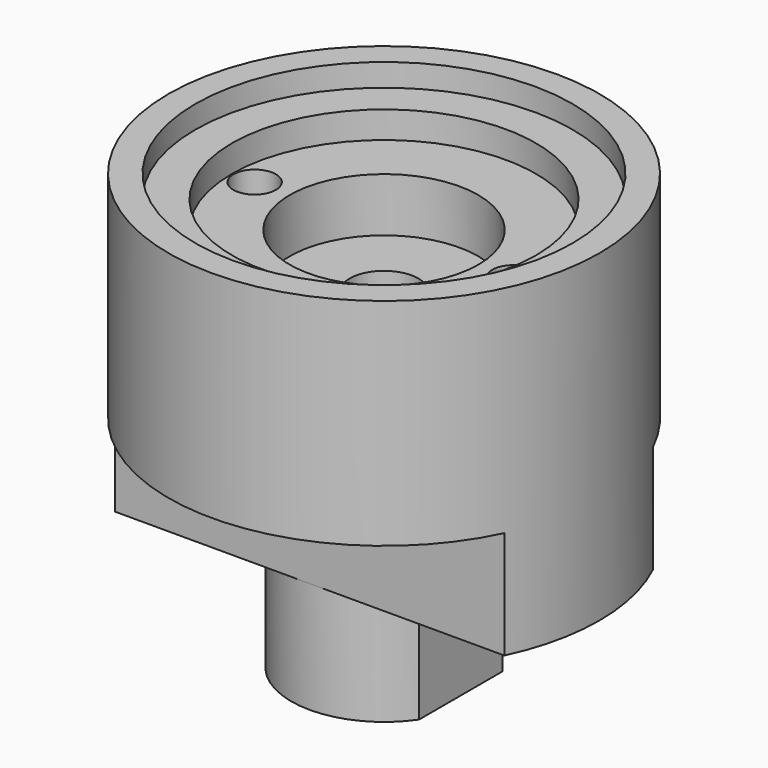
from build123d import *

# Parameters (mm, degrees)
F0_R      = 12.7
F0_R_2    = 1.25
F1_DEPTH  = 19.05
F2_R      = 11.1125
F3_DEPTH  = 1.3335
F4_R      = 8.9535
F5_DEPTH  = 1.5875
F6_R      = 2.3876
F6_R_2    = 1.25
F7_DEPTH  = 0.8382
F9_DEPTH  = 6.5532
F10_R     = 2.0193
F11_DEPTH = 12.7
F12_R     = 5.55625
F13_DEPTH = 3.175
F15_W     = 32.121103
F15_H     = 6.35
F16_DEPTH = 25.4
F18_W     = 29.637642
F18_H     = 6.35
F19_DEPTH = 25.4


with BuildPart() as f1:
    # F0 (on Top) → F1 (new body)
    with BuildSketch(Plane.XY):
        Circle(F0_R)
        with Locations((-7.62, 0)):
            Circle(F0_R_2, mode=Mode.SUBTRACT)
        with Locations((7.62, 0)):
            Circle(F0_R_2, mode=Mode.SUBTRACT)
    extrude(amount=F1_DEPTH)

    # F2 (on face) → F3 (cut)
    with BuildSketch(Plane.XY.offset(19.05)):
        Circle(F2_R)
    extrude(amount=-F3_DEPTH, mode=Mode.SUBTRACT)

    # F4 (on face) → F5 (cut)
    with BuildSketch(Plane.XY.offset(17.7165)):
        Circle(F4_R)
    extrude(amount=-F5_DEPTH, mode=Mode.SUBTRACT)

    # F6 (on face) → F7 (cut)
    with BuildSketch(Plane(origin=(0, 0, 0), x_dir=(1, 0, 0), z_dir=(0, 0, -1))):
        with Locations((-7.62, 0)):
            Circle(F6_R)
        with Locations((-7.62, 0)):
            Circle(F6_R_2, mode=Mode.SUBTRACT)
        with Locations((7.62, 0)):
            Circle(F6_R)
        with Locations((7.62, 0)):
            Circle(F6_R_2, mode=Mode.SUBTRACT)
    extrude(amount=-F7_DEPTH, mode=Mode.SUBTRACT)

    # F8 (on face) → F9 (join)
    with BuildSketch(Plane(origin=(0, 0, 0), x_dir=(1, 0, 0), z_dir=(0, 0, -1))):
        with BuildLine():
            Line((-4.5212, 3.062886), (-4.519813, -3.064932))
            ThreePointArc((-4.519813, -3.064932), (0, -5.461), (4.519813, -3.064932))
            Line((4.519813, -3.064932), (4.5212, 3.062886))
            ThreePointArc((4.5212, 3.062886), (0, 5.461), (-4.5212, 3.062886))
        make_face()
    extrude(amount=F9_DEPTH)

    # F10 (on face) → F11 (cut)
    with BuildSketch(Plane.XY.offset(16.129)):
        Circle(F10_R)
    extrude(amount=-F11_DEPTH, mode=Mode.SUBTRACT)

    # F12 (on face) → F13 (cut)
    with BuildSketch(Plane.XY.offset(16.129)):
        Circle(F12_R)
    extrude(amount=-F13_DEPTH, mode=Mode.SUBTRACT)

    # F15 (on offset) → F16 (cut)
    with BuildSketch(Plane.XZ.offset(5.461)):
        with Locations((-0.362548, 3.175)):
            Rectangle(F15_W, F15_H)
    extrude(amount=F16_DEPTH, mode=Mode.SUBTRACT)

    # F18 (on offset) → F19 (cut)
    with BuildSketch(Plane.XZ.offset(-5.461)):
        with Locations((-0.89105, 3.175)):
            Rectangle(F18_W, F18_H)
    extrude(amount=-F19_DEPTH, mode=Mode.SUBTRACT)


solid = f1.part
